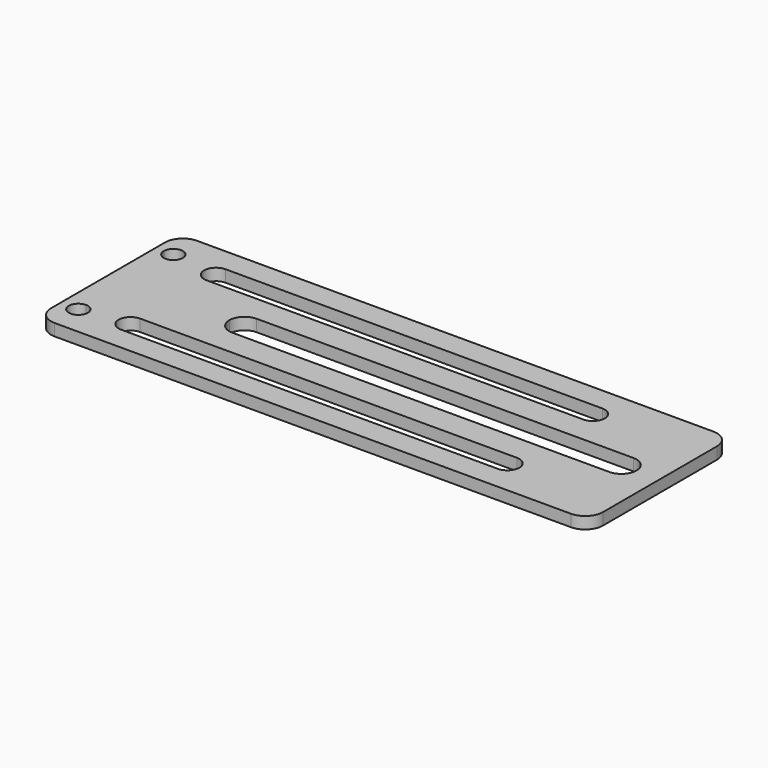
from build123d import *

# Parameters (mm, degrees)
F1_DEPTH = 2
F2_R     = 3


with BuildPart() as f1:
    # F0 (on Top) → F1 (new body)
    with BuildSketch(Plane.XY):
        with BuildLine():
            Line((-46.5, -15), (46.5, -15))
            Line((46.5, -15), (46.5, 15))
            Line((46.5, 15), (-46.5, 15))
            Line((-46.5, 15), (-46.5, 10))
            Line((-46.5, 10), (-45.1, 10))
            ThreePointArc((-45.1, 10), (-43.5, 11.6), (-41.9, 10))
            ThreePointArc((-41.9, 10), (-42.3686291501, 8.8686291501), (-43.5, 8.4))
            Line((-43.5, 8.4), (-43.5, 0))
            Line((-43.5, 0), (-46.5, 0))
            Line((-46.5, 0), (-46.5, -15))
        make_face()
        with BuildLine():
            ThreePointArc((-41.9, -10), (-44.6313708499, -11.1313708499), (-43.5, -8.4))
            ThreePointArc((-43.5, -8.4), (-42.3686291501, -8.8686291501), (-41.9, -10))
        make_face(mode=Mode.SUBTRACT)
        with BuildLine():
            Line((-35.5, -6.99), (0, -6.99))
            Line((0, -6.99), (28, -6.99))
            ThreePointArc((28, -6.99), (30.01, -9), (28, -11.01))
            Line((28, -11.01), (-35.5, -11.01))
            ThreePointArc((-35.5, -11.01), (-37.51, -9), (-35.5, -6.99))
        make_face(mode=Mode.SUBTRACT)
        with BuildLine():
            Line((28, 6.99), (0, 6.99))
            Line((0, 6.99), (-35.5, 6.99))
            ThreePointArc((-35.5, 6.99), (-37.51, 9), (-35.5, 11.01))
            Line((-35.5, 11.01), (28, 11.01))
            ThreePointArc((28, 11.01), (30.01, 9), (28, 6.99))
        make_face(mode=Mode.SUBTRACT)
        with BuildLine():
            ThreePointArc((-23.5, -2.55), (-25.303122292, -1.803122292), (-26.05, 0))
            ThreePointArc((-26.05, 0), (-25.303122292, 1.803122292), (-23.5, 2.55))
            Line((-23.5, 2.55), (0, 2.55))
            Line((0, 2.55), (40, 2.55))
            ThreePointArc((40, 2.55), (42.55, 0), (40, -2.55))
            Line((40, -2.55), (0, -2.55))
            Line((0, -2.55), (-23.5, -2.55))
        make_face(mode=Mode.SUBTRACT)
        with BuildLine():
            Line((-46.5, 10), (-46.5, 0))
            Line((-46.5, 0), (-43.5, 0))
            Line((-43.5, 0), (-43.5, 8.4))
            ThreePointArc((-43.5, 8.4), (-44.6313708499, 8.8686291501), (-45.1, 10))
            Line((-45.1, 10), (-46.5, 10))
        make_face()
    extrude(amount=F1_DEPTH)

    # F2
    f2_edges = [f1.edges().sort_by_distance(p)[0] for p in [
        (-46.5, -15, 1),
        (46.5, -15, 1),
        (46.5, 15, 1),
        (-46.5, 15, 1),
    ]]
    fillet(f2_edges, radius=F2_R)


solid = f1.part
